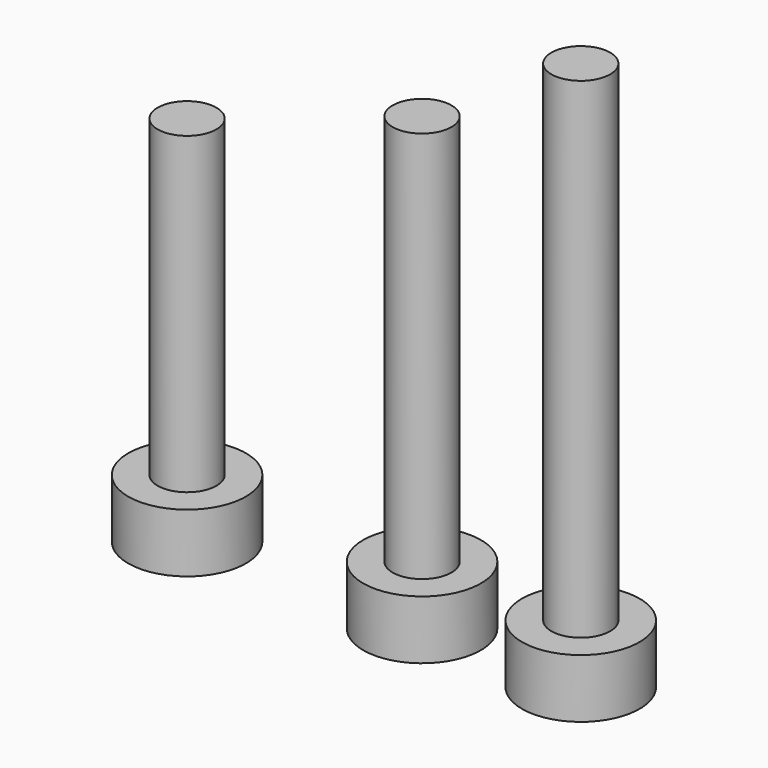
from build123d import *


with BuildPart() as f1:
    # F0 (on Front) → F1 (revolve)
    with BuildSketch(Plane.XZ):
        Polygon((-46.645819, 0), (-43.645819, 0), (-43.645819, 23), (-45.145819, 23), (-45.145819, 3), (-46.645819, 3), align=None)
    revolve(axis=Axis((-43.645819, 0, 11.5), (0, 0, 1)))


with BuildPart() as f2:
    # F0 (on Front) → F2 (revolve)
    with BuildSketch(Plane.XZ):
        Polygon((-38.550951, 3), (-38.550951, 0), (-35.550951, 0), (-35.550951, 28), (-37.050951, 28), (-37.050951, 3), align=None)
    revolve(axis=Axis((-35.550951, 0, 14), (0, 0, -1)))


with BuildPart() as f3:
    # F0 (on Front) → F3 (revolve)
    with BuildSketch(Plane.XZ):
        Polygon((-58.629103, 3), (-58.629103, 0), (-55.629103, 0), (-55.629103, 19), (-57.129103, 19), (-57.129103, 3), align=None)
    revolve(axis=Axis((-55.629103, 0, 9.5), (0, 0, 1)))


solid = Compound([f1.part, f2.part, f3.part])
